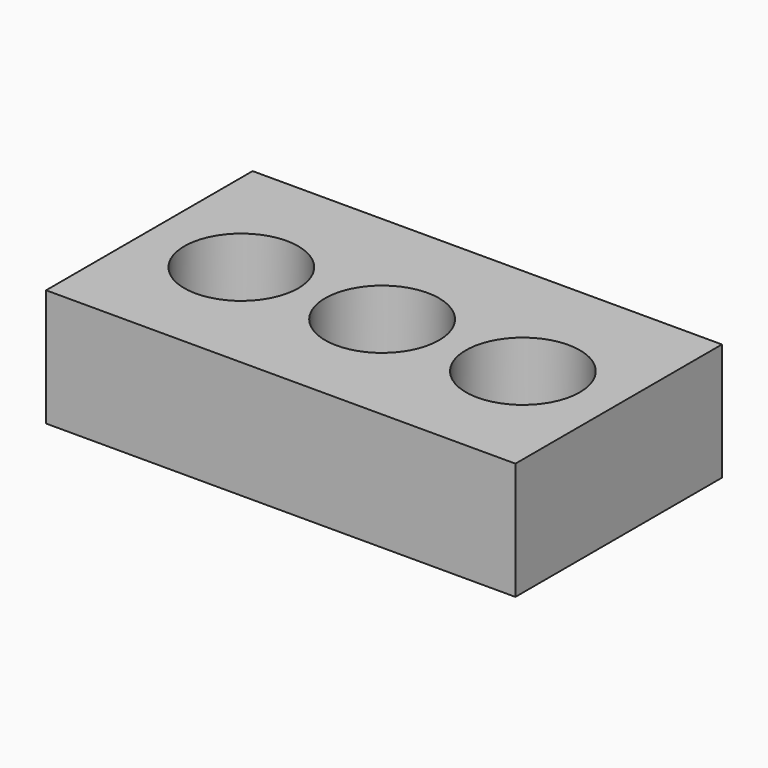
from build123d import *

# Parameters (mm, degrees)
F0_W     = 100
F0_H     = 55
F1_DEPTH = 25
F2_R     = 12.136873
F3_DEPTH = 25


with BuildPart() as f1:
    # F0 (on Top) → F1 (new body)
    with BuildSketch(Plane.XY):
        with Locations((50, 27.5)):
            Rectangle(F0_W, F0_H)
    extrude(amount=F1_DEPTH)

    # F2 (on Top) → F3 (cut)
    with BuildSketch(Plane.XY):
        with Locations((80.173743, 26.78014)):
            Circle(F2_R)
        with Locations((50.173743, 26.78014)):
            Circle(F2_R)
        with Locations((20.173743, 26.78014)):
            Circle(F2_R)
    extrude(amount=F3_DEPTH, mode=Mode.SUBTRACT)


solid = f1.part
